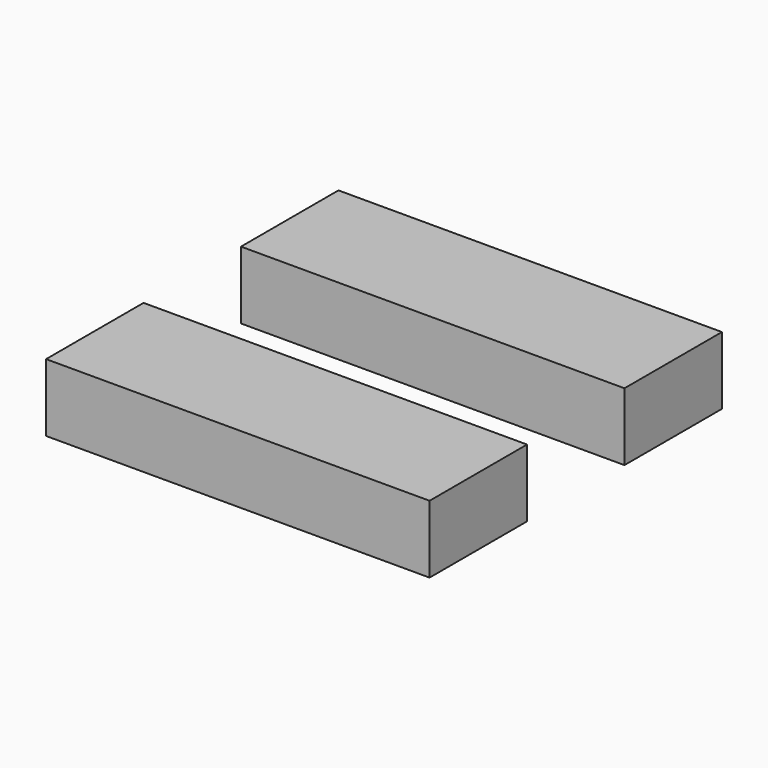
from build123d import *

# Parameters (mm, degrees)
F0_W     = 1700
F0_H     = 150
F1_DEPTH = 300


with BuildPart() as f1:
    # F0 (on Top) → F1 (new body)
    with BuildSketch(Plane.XY):
        Polygon((-1700, 150), (0, 150), (0, 540), (-540, 540), (-1700, 540), align=None)
        with Locations((-850, 75)):
            Rectangle(F0_W, F0_H)
        Polygon((-540, 1080), (0, 1080), (0, 1470), (-1700, 1470), (-1700, 1080), align=None)
        with Locations((-850, 1545)):
            Rectangle(F0_W, F0_H)
    extrude(amount=-F1_DEPTH)


solid = f1.part
